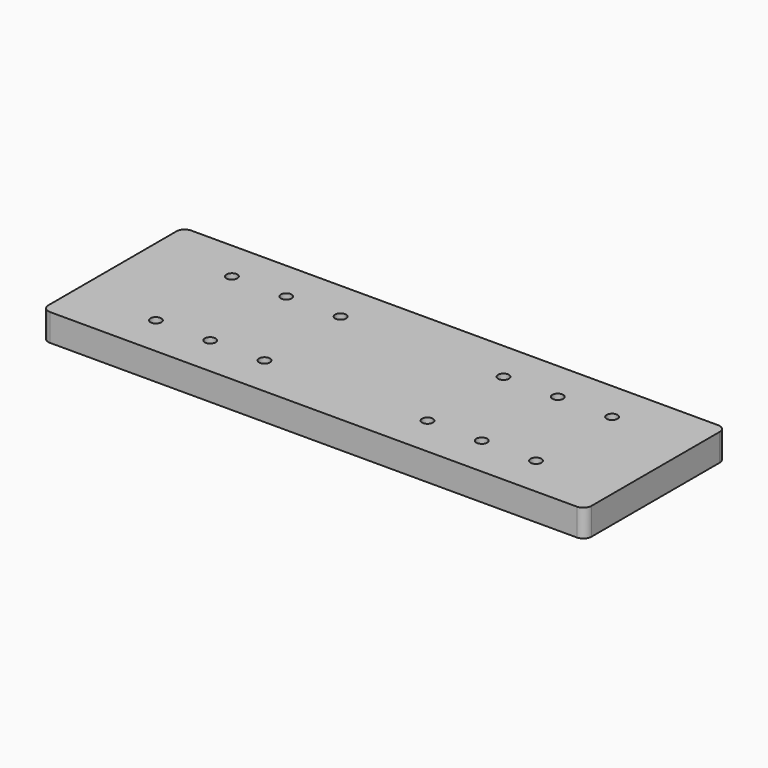
from build123d import *

# Parameters (mm, degrees)
SKETCH_W  = 200
SKETCH_H  = 65
SKETCH_R  = 2
PAD_DEPTH = 10
FILLET_R  = 3


with BuildPart() as part:
    # Sketch → Pad (new body)
    with BuildSketch(Plane.XY):
        with Locations((100, 32.5)):
            Rectangle(SKETCH_W, SKETCH_H)
        with Locations((30, 50)):
            Circle(SKETCH_R, mode=Mode.SUBTRACT)
        with Locations((30, 15)):
            Circle(SKETCH_R, mode=Mode.SUBTRACT)
        with Locations((170, 50)):
            Circle(SKETCH_R, mode=Mode.SUBTRACT)
        with Locations((170, 15)):
            Circle(SKETCH_R, mode=Mode.SUBTRACT)
        with Locations((50, 50)):
            Circle(SKETCH_R, mode=Mode.SUBTRACT)
        with Locations((50, 15)):
            Circle(SKETCH_R, mode=Mode.SUBTRACT)
        with Locations((150, 50)):
            Circle(SKETCH_R, mode=Mode.SUBTRACT)
        with Locations((150, 15)):
            Circle(SKETCH_R, mode=Mode.SUBTRACT)
        with Locations((70, 50)):
            Circle(SKETCH_R, mode=Mode.SUBTRACT)
        with Locations((70, 15)):
            Circle(SKETCH_R, mode=Mode.SUBTRACT)
        with Locations((130, 15)):
            Circle(SKETCH_R, mode=Mode.SUBTRACT)
        with Locations((130, 50)):
            Circle(SKETCH_R, mode=Mode.SUBTRACT)
    extrude(amount=PAD_DEPTH)

    # Fillet
    fillet_edges = [part.edges().sort_by_distance(p)[0] for p in [
        (200, 0, 5),
        (0, 0, 5),
        (200, 65, 5),
        (0, 65, 5),
    ]]
    fillet(fillet_edges, radius=FILLET_R)


solid = part.part
